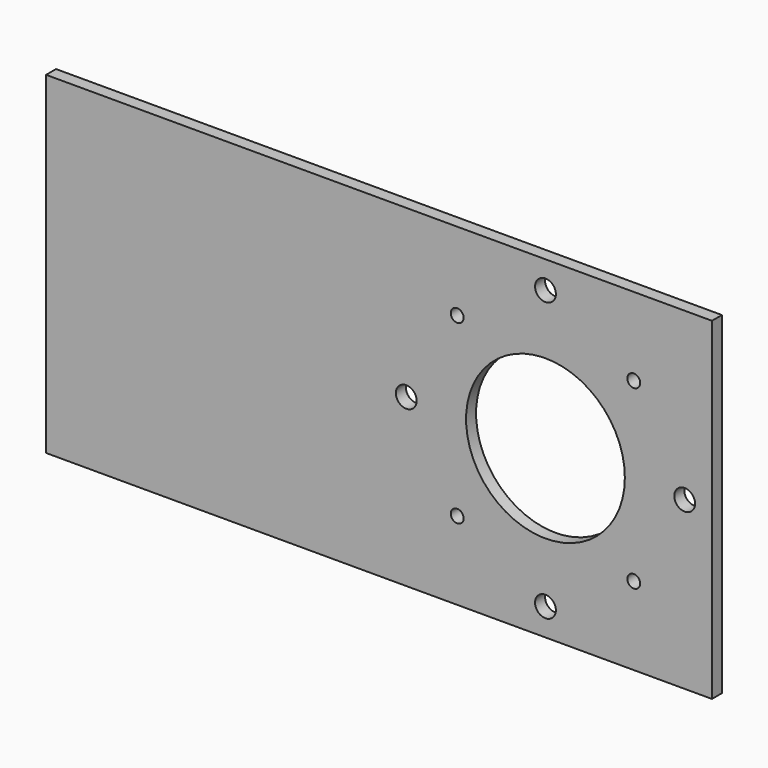
from build123d import *

# Parameters (mm, degrees)
F0_W     = 160
F0_H     = 80
F0_R     = 1.55
F0_R_2   = 2.5
F0_R_3   = 19.075
F1_DEPTH = 3


with BuildPart() as f1:
    # F0 (on Front) → F1 (new body)
    with BuildSketch(Plane.XZ):
        with Locations((-40, 0)):
            Rectangle(F0_W, F0_H)
        with Locations((-21.213203, -21.213203)):
            Circle(F0_R, mode=Mode.SUBTRACT)
        with Locations((0, -33.446151)):
            Circle(F0_R_2, mode=Mode.SUBTRACT)
        with Locations((21.213203, -21.213203)):
            Circle(F0_R, mode=Mode.SUBTRACT)
        with Locations((-33.446151, 0)):
            Circle(F0_R_2, mode=Mode.SUBTRACT)
        Circle(F0_R_3, mode=Mode.SUBTRACT)
        with Locations((33.446151, 0)):
            Circle(F0_R_2, mode=Mode.SUBTRACT)
        with Locations((-21.213203, 21.213203)):
            Circle(F0_R, mode=Mode.SUBTRACT)
        with Locations((21.213203, 21.213203)):
            Circle(F0_R, mode=Mode.SUBTRACT)
        with Locations((0, 33.446151)):
            Circle(F0_R_2, mode=Mode.SUBTRACT)
    extrude(amount=F1_DEPTH)


solid = f1.part
